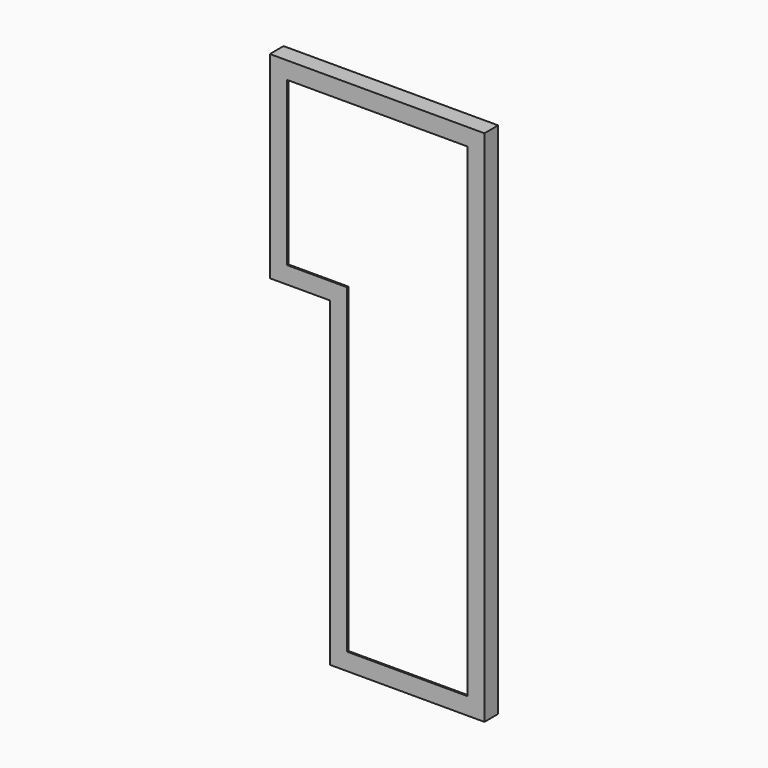
from build123d import *

# Parameters (mm, degrees)
F1_DEPTH = 4.7625
F3_DEPTH = 46.0375


with BuildPart() as f1:
    # F0 (on Front) → F1 (new body)
    with BuildSketch(Plane.XZ):
        Polygon((457.2, 584.2), (-177.8, 584.2), (-177.8, 0), (0, 0), (0, -949.325), (457.2, -949.325), align=None)
        Polygon((50.8, -898.525), (50.8, 50.8), (-127, 50.8), (-127, 533.4), (406.4, 533.4), (406.4, -898.525), align=None, mode=Mode.SUBTRACT)
    extrude(amount=F1_DEPTH)

    # F2 (on face) → F3 (join)
    with BuildSketch(Plane(origin=(0, 0, 0), x_dir=(-1, 0, 0), z_dir=(0, 1, 0))):
        Polygon((177.8, 584.2), (-457.2, 584.2), (-457.2, -949.325), (0, -949.325), (0, 0), (177.8, 0), align=None)
        Polygon((-4.7625, -944.5625), (-452.4375, -944.5625), (-452.4375, 579.4375), (173.0375, 579.4375), (173.0375, 4.7625), (-4.7625, 4.7625), align=None, mode=Mode.SUBTRACT)
    extrude(amount=F3_DEPTH)


solid = f1.part
